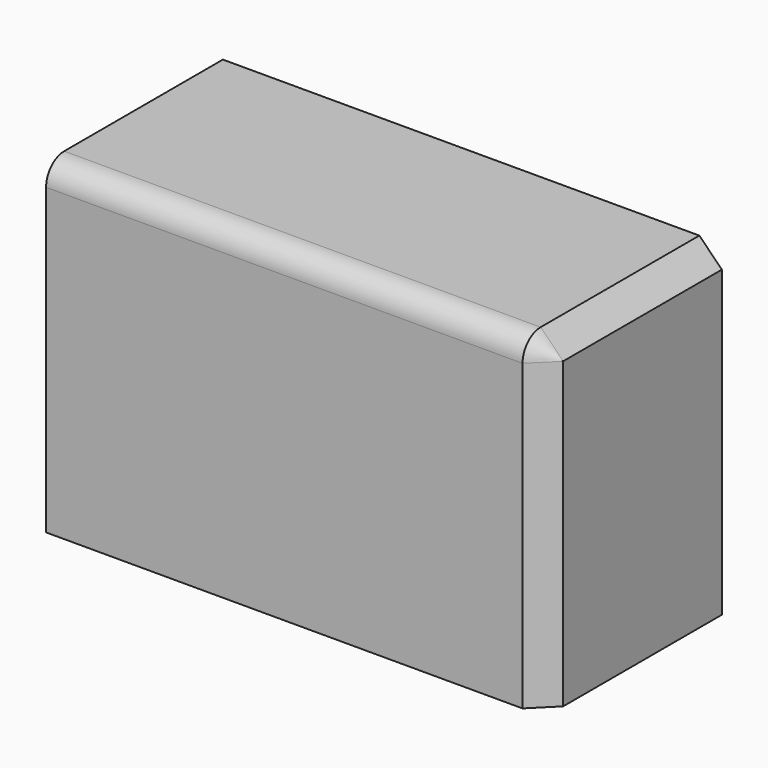
from build123d import *

# Parameters (mm, degrees)
F0_W     = 112.21791
F0_H     = 49.694728
F1_DEPTH = 73.406
F2_R     = 5.08
F3_SIZE  = 5.08


with BuildPart() as f1:
    # F0 (on Top) → F1 (new body)
    with BuildSketch(Plane.XY):
        with Locations((0.404328, -24.847364)):
            Rectangle(F0_W, F0_H)
    extrude(amount=F1_DEPTH)

    # F2
    f2_edges = [f1.edges().sort_by_distance(p)[0] for p in [
        (0.404328, -49.694728, 73.406),
    ]]
    fillet(f2_edges, radius=F2_R)

    # F3
    f3_edges = [f1.edges().sort_by_distance(p)[0] for p in [
        (56.513283, -22.307364, 73.406),
    ]]
    chamfer(f3_edges, length=F3_SIZE)


solid = f1.part
